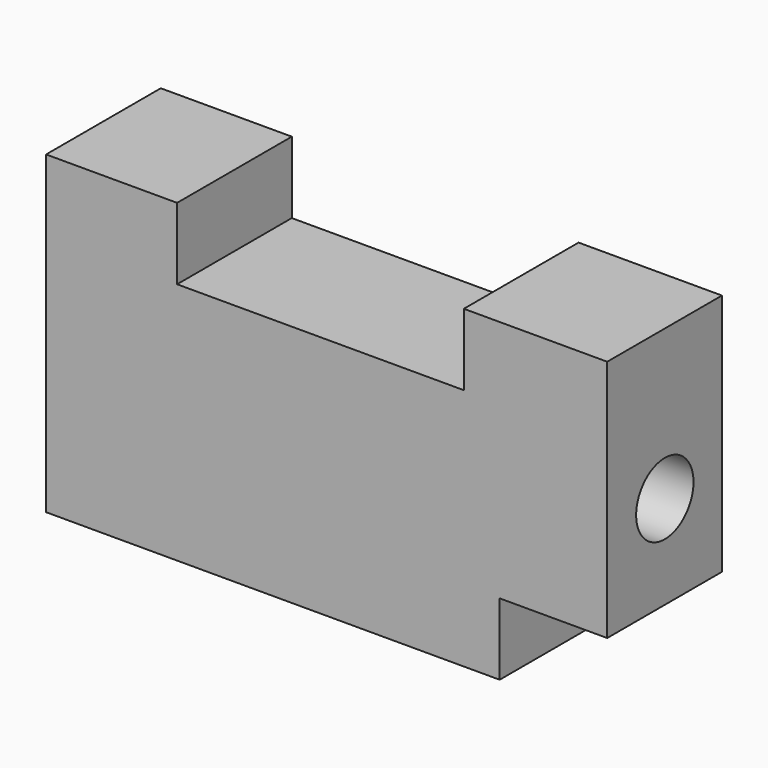
from build123d import *

# Parameters (mm, degrees)
F0_W     = 99.410921
F0_H     = 55.796448
F1_DEPTH = 25.4
F2_W     = 50.8
F2_H     = 12.7
F3_DEPTH = 25.4
F4_W     = 19.05
F4_H     = 12.7
F5_DEPTH = 25.4
F7_R     = 6.35
F8_DEPTH = 101.6


with BuildPart() as f1:
    # F0 (on Front) → F1 (new body)
    with BuildSketch(Plane.XZ):
        with Locations((-49.705461, 27.898224)):
            Rectangle(F0_W, F0_H)
    extrude(amount=F1_DEPTH)

    # F2 (on face) → F3 (cut)
    with BuildSketch(Plane.XZ.offset(25.4)):
        with Locations((-50.8, 49.446448)):
            Rectangle(F2_W, F2_H)
    extrude(amount=-F3_DEPTH, mode=Mode.SUBTRACT)

    # F4 (on face) → F5 (cut)
    with BuildSketch(Plane.XZ.offset(25.4)):
        with Locations((-9.525, 6.35)):
            Rectangle(F4_W, F4_H)
    extrude(amount=-F5_DEPTH, mode=Mode.SUBTRACT)

    # F7 (on face) → F8 (cut)
    with BuildSketch(Plane.YZ):
        with Locations((-12.644938, 29.27478)):
            Circle(F7_R)
    extrude(amount=-F8_DEPTH, mode=Mode.SUBTRACT)


solid = f1.part
